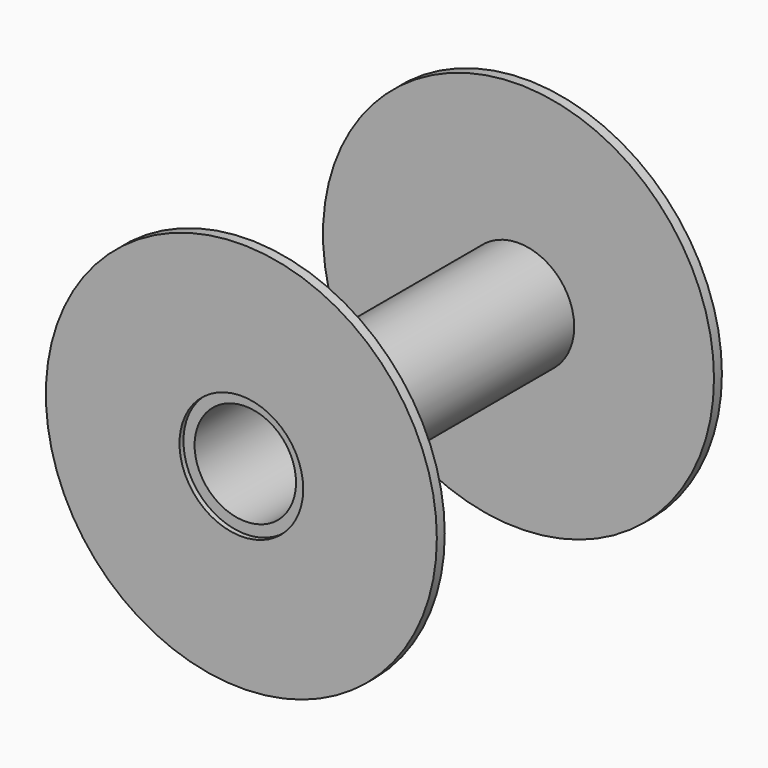
from build123d import *

# Parameters (mm, degrees)
F0_R     = 39.5
F0_R_2   = 10.25
F1_DEPTH = 2
F2_R     = 11.25
F2_R_2   = 10.25
F3_DEPTH = 68
F4_R     = 12.5
F5_DEPTH = 1
F6_R     = 39.5
F6_R_2   = 10.25
F7_DEPTH = 2
F8_R     = 12.5
F9_DEPTH = 1


with BuildPart() as f1:
    # F0 (on Front) → F1 (new body)
    with BuildSketch(Plane.XZ):
        Circle(F0_R)
        Circle(F0_R_2, mode=Mode.SUBTRACT)
    extrude(amount=F1_DEPTH)

    # F2 (on face) → F3 (join)
    with BuildSketch(Plane.XZ.offset(2)):
        Circle(F2_R)
        Circle(F2_R_2, mode=Mode.SUBTRACT)
    extrude(amount=F3_DEPTH)

    # F4 (on face) → F5 (cut)
    with BuildSketch(Plane(origin=(0, 0, 0), x_dir=(-1, 0, 0), z_dir=(0, 1, 0))):
        Circle(F4_R)
    extrude(amount=-F5_DEPTH, mode=Mode.SUBTRACT)

    # F6 (on face) → F7 (join)
    with BuildSketch(Plane.XZ.offset(70)):
        Circle(F6_R)
        Circle(F6_R_2, mode=Mode.SUBTRACT)
    extrude(amount=F7_DEPTH)

    # F8 (on face) → F9 (cut)
    with BuildSketch(Plane.XZ.offset(72)):
        Circle(F8_R)
    extrude(amount=-F9_DEPTH, mode=Mode.SUBTRACT)


solid = f1.part
